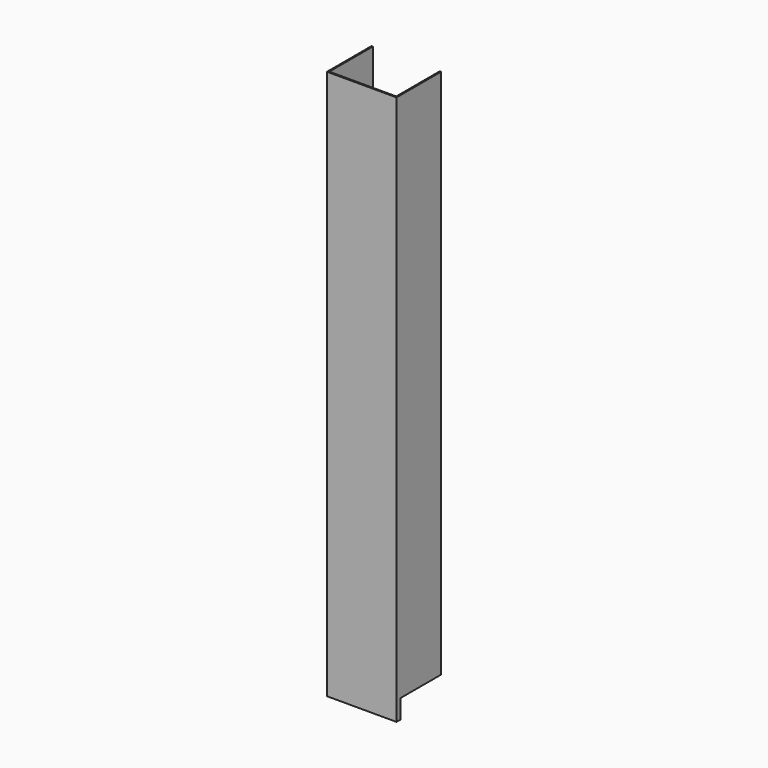
from build123d import *

# Parameters (mm, degrees)
F1_DEPTH = 870
F2_W     = 80
F2_H     = 30
F3_DEPTH = 2


with BuildPart() as f1:
    # F0 (on Top) → F1 (new body)
    with BuildSketch(Plane.XY):
        Polygon((2, 0), (0, 0), (0, -88), (110, -88), (110, 0), (108, 0), (108, -86), (2, -86), align=None)
    extrude(amount=F1_DEPTH)

    # F2 (on face) → F3 (cut, through all)
    with BuildSketch(Plane.YZ.offset(110)):
        with Locations((-40, 15)):
            Rectangle(F2_W, F2_H)
    extrude(amount=-F3_DEPTH, mode=Mode.SUBTRACT)


solid = f1.part
